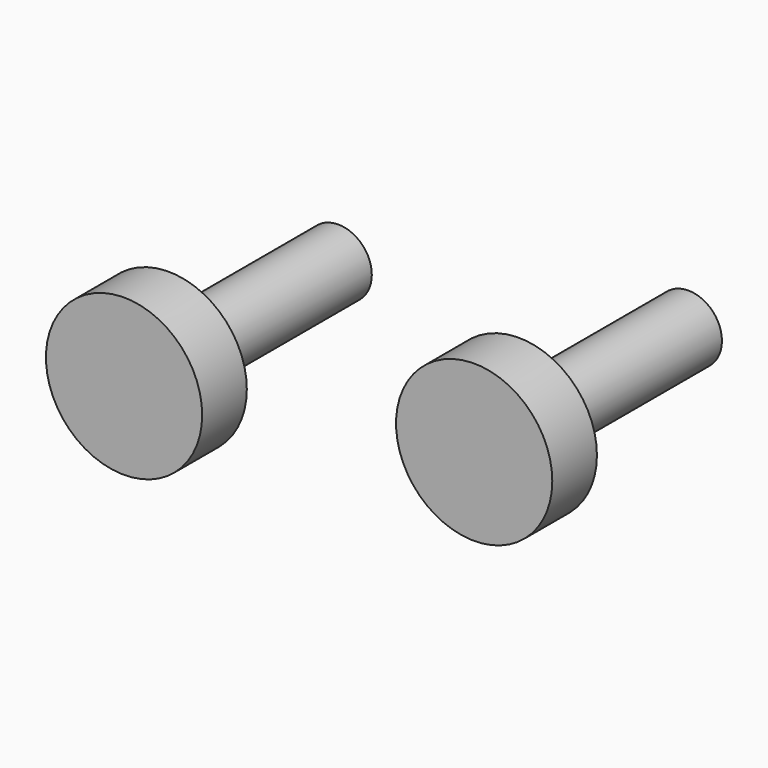
from build123d import *

# Parameters (mm, degrees)
F0_R     = 8.89
F1_DEPTH = 6.35
F2_R     = 3.81
F3_DEPTH = 24.13


with BuildPart() as f1:
    # F0 (on Front) → F1 (new body)
    with BuildSketch(Plane.XZ):
        with Locations((-52.120335, 13.578934)):
            Circle(F0_R)
        with Locations((-12.277957, 19.921189)):
            Circle(F0_R)
    extrude(amount=F1_DEPTH)


with BuildPart() as f3:
    # F2 (on Front) → F3 (new body)
    with BuildSketch(Plane.XZ):
        with Locations((-52.120335, 13.578934)):
            Circle(F2_R)
        with Locations((-12.277957, 19.921189)):
            Circle(F2_R)
    extrude(amount=-F3_DEPTH)


solid = Compound([f1.part, f3.part])
